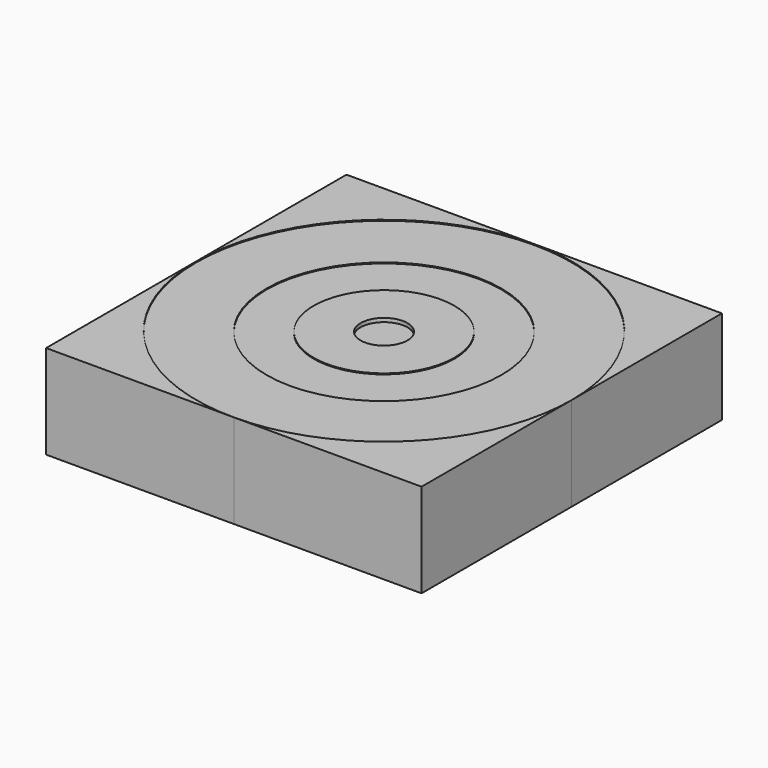
from build123d import *

# Parameters (mm, degrees)
F1_DEPTH = 25.4
F0_R     = 31.75
F2_DEPTH = 25.146
F0_R_2   = 19.05
F3_DEPTH = 24.892
F0_R_3   = 6.35
F4_DEPTH = 25.146
F5_DEPTH = 24.13


with BuildPart() as f1:
    # F0 (on Top) → F1 (new body)
    with BuildSketch(Plane.XY):
        with BuildLine():
            Line((-52.174702, 61.551638), (-52.174702, 10.751638))
            ThreePointArc((-52.174702, 10.751638), (-37.295726, 46.672662), (-1.374702, 61.551638))
            Line((-1.374702, 61.551638), (-52.174702, 61.551638))
        make_face()
        with BuildLine():
            ThreePointArc((-1.374702, 61.551638), (34.546323, 46.672662), (49.425298, 10.751638))
            Line((49.425298, 10.751638), (49.425298, 61.551638))
            Line((49.425298, 61.551638), (-1.374702, 61.551638))
        make_face()
        with BuildLine():
            Line((-1.374702, -40.048362), (49.425298, -40.048362))
            Line((49.425298, -40.048362), (49.425298, 10.751638))
            ThreePointArc((49.425298, 10.751638), (34.546323, -25.169387), (-1.374702, -40.048362))
        make_face()
        with BuildLine():
            Line((-52.174702, -40.048362), (-1.374702, -40.048362))
            ThreePointArc((-1.374702, -40.048362), (-37.295726, -25.169387), (-52.174702, 10.751638))
            Line((-52.174702, 10.751638), (-52.174702, -40.048362))
        make_face()
    extrude(amount=F1_DEPTH)


with BuildPart() as f2:
    # F0 (on Top) → F2 (new body)
    with BuildSketch(Plane.XY):
        with BuildLine():
            ThreePointArc((-52.174702, 10.751638), (-37.295726, -25.169387), (-1.374702, -40.048362))
            ThreePointArc((-1.374702, -40.048362), (34.546323, -25.169387), (49.425298, 10.751638))
            ThreePointArc((49.425298, 10.751638), (34.546323, 46.672662), (-1.374702, 61.551638))
            ThreePointArc((-1.374702, 61.551638), (-37.295726, 46.672662), (-52.174702, 10.751638))
        make_face()
        with Locations((-1.374702, 10.751638)):
            Circle(F0_R, mode=Mode.SUBTRACT)
    extrude(amount=F2_DEPTH)

    # F0 (on Top) → F3 (join)
    with BuildSketch(Plane.XY):
        with Locations((-1.374702, 10.751638)):
            Circle(F0_R)
        with Locations((-1.374702, 10.751638)):
            Circle(F0_R_2, mode=Mode.SUBTRACT)
    extrude(amount=F3_DEPTH)

    # F0 (on Top) → F4 (join)
    with BuildSketch(Plane.XY):
        with Locations((-1.374702, 10.751638)):
            Circle(F0_R_2)
        with Locations((-1.374702, 10.751638)):
            Circle(F0_R_3, mode=Mode.SUBTRACT)
    extrude(amount=F4_DEPTH)

    # F0 (on Top) → F5 (join)
    with BuildSketch(Plane.XY):
        with Locations((-1.374702, 10.751638)):
            Circle(F0_R_3)
    extrude(amount=F5_DEPTH)


solid = Compound([f1.part, f2.part])
